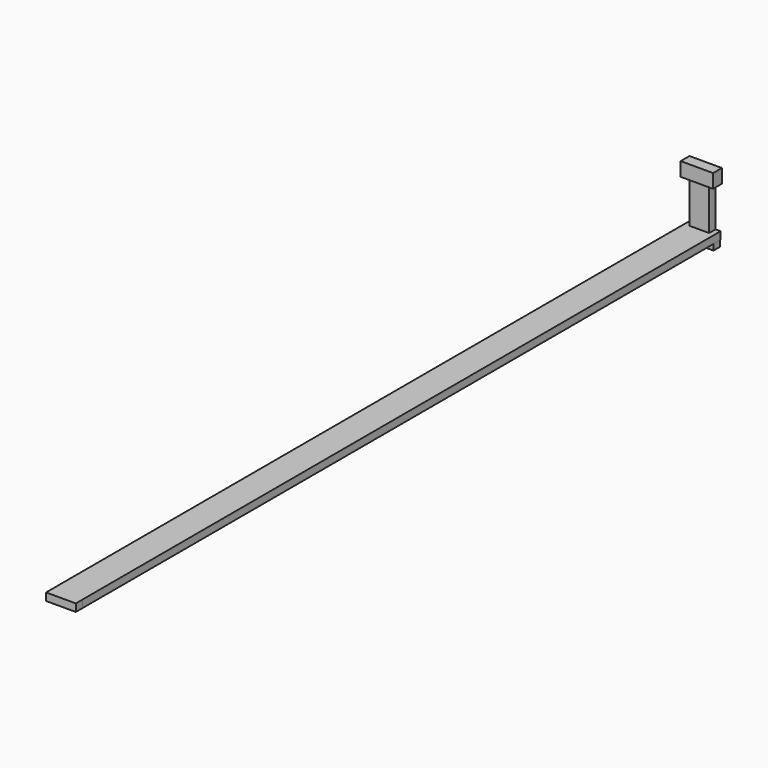
from build123d import *

# Parameters (mm, degrees)
F1_W      = 50.093217
F1_H      = 21.428767
F5_DEPTH  = 17.018
F0_W      = 30.334227
F0_H      = 64.842886
F6_DEPTH  = 12.446
F2_W      = 45.918781
F2_H      = 11.688418
F7_DEPTH  = 1244.6
F7_FACE_W = 45.918782
F7_FACE_H = 11.688418
F8_DEPTH  = 12.446
F4_W      = 10.853528
F4_H      = 9.462051
F9_DEPTH  = 12.446
F3_W      = 12.801599
F3_H      = 9.740349
F10_DEPTH = 12.446


with BuildPart() as f5:
    # F1 (on Front) → F5 (new body)
    with BuildSketch(Plane.XZ):
        with Locations((3.339546, 61.503342)):
            Rectangle(F1_W, F1_H)
    extrude(amount=F5_DEPTH)


with BuildPart() as f6:
    # F0 (on Front) → F6 (new body)
    with BuildSketch(Plane.XZ):
        with Locations((3.478697, 18.089217)):
            Rectangle(F0_W, F0_H)
    extrude(amount=F6_DEPTH)

    # F2 (on Front) → F7 (join)
    with BuildSketch(Plane.XZ):
        with Locations((3.478694, -20.176435)):
            Rectangle(F2_W, F2_H)
    extrude(amount=F7_DEPTH)

    # F7_face (on face) → F8 (join)
    with BuildSketch(Plane(origin=(3.478695, -1244.6, -20.176435), x_dir=(1, 0, 0), z_dir=(0, -1, 0))):
        Rectangle(F7_FACE_W, F7_FACE_H)
    extrude(amount=-F8_DEPTH)


with BuildPart() as f9:
    # F4 (on Front) → F9 (new body)
    with BuildSketch(Plane.XZ):
        with Locations((19.898139, -31.308259)):
            Rectangle(F4_W, F4_H)
    extrude(amount=F9_DEPTH)


with BuildPart() as f10:
    # F3 (on Front) → F10 (new body)
    with BuildSketch(Plane.XZ):
        with Locations((-13.914782, -31.447408)):
            Rectangle(F3_W, F3_H)
    extrude(amount=F10_DEPTH)


solid = Compound([f5.part, f6.part, f9.part, f10.part])
